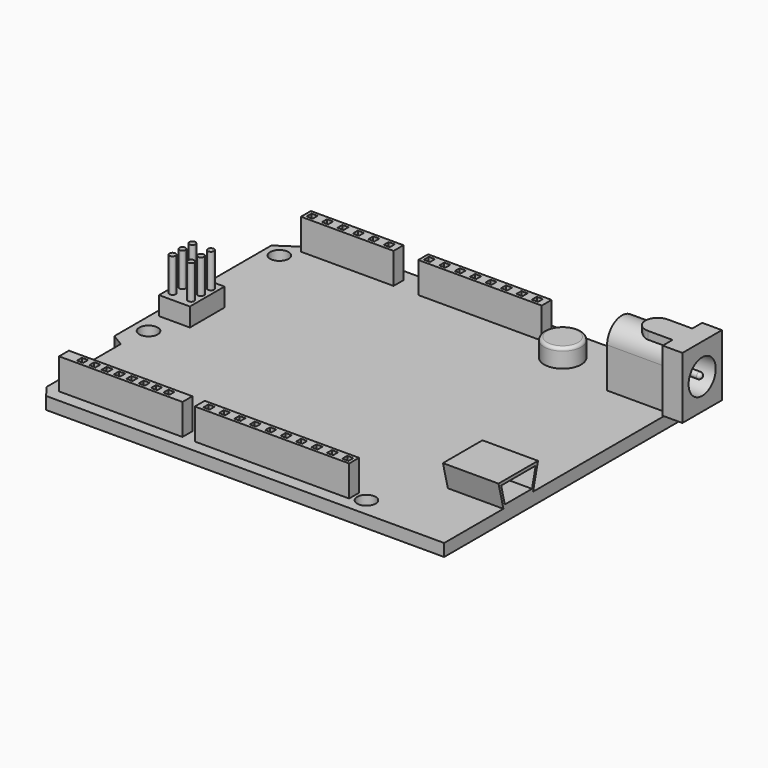
from build123d import *

# Parameters (mm, degrees)
F0_W      = 68
F0_H      = 55
F1_DEPTH  = 2
F2_W      = 2
F2_H      = 17
F3_DEPTH  = 2
F5_DEPTH  = 2
F7_DEPTH  = 2
F9_DEPTH  = 2
F10_R     = 1.5
F11_DEPTH = 2
F12_R     = 1.5
F13_DEPTH = 2
F14_W     = 15
F14_H     = 2
F15_DEPTH = 5
F16_W     = 1
F16_H     = 1
F17_DEPTH = 4
F18_W     = 1
F18_H     = 1
F19_DEPTH = 4
F20_W     = 20
F20_H     = 2
F21_DEPTH = 5
F22_W     = 1
F22_H     = 1
F23_DEPTH = 4
F24_W     = 20
F24_H     = 2
F24_W_2   = 25
F25_DEPTH = 5
F26_W     = 1
F26_H     = 1
F27_DEPTH = 4
F28_W     = 1
F28_H     = 1
F29_DEPTH = 4
F30_R     = 3
F31_DEPTH = 3
F32_R     = 0.5
F33_W     = 5
F33_H     = 7
F34_DEPTH = 3
F35_R     = 0.5
F36_DEPTH = 5.5
F38_DEPTH = 9
F40_DEPTH = 7
F41_W     = 3.2
F41_H     = 8
F42_DEPTH = 10
F44_DEPTH = 13
F47_R     = 2.75
F48_DEPTH = 4
F49_R     = 0.5
F50_DEPTH = 4
F51_R     = 0.5


with BuildPart() as f1:
    # F0 (on Top) → F1 (new body)
    with BuildSketch(Plane.XY):
        with Locations((0, 27.5)):
            Rectangle(F0_W, F0_H)
    extrude(amount=F1_DEPTH)

    # F2 (on face) → F3 (cut, through all)
    with BuildSketch(Plane.XY.offset(2)):
        with Locations((-33, 8.5)):
            Rectangle(F2_W, F2_H)
    extrude(amount=-F3_DEPTH, mode=Mode.SUBTRACT)

    # F4 (on face) → F5 (cut, through all)
    with BuildSketch(Plane.XY.offset(2)):
        Polygon((-30.5, 0), (-32, 2), (-32, 0), align=None)
    extrude(amount=-F5_DEPTH, mode=Mode.SUBTRACT)

    # F6 (on face) → F7 (cut, through all)
    with BuildSketch(Plane.XY.offset(2)):
        Polygon((-34, 18.2), (-34, 17), (-32, 17), align=None)
    extrude(amount=-F7_DEPTH, mode=Mode.SUBTRACT)

    # F8 (on face) → F9 (cut, through all)
    with BuildSketch(Plane.XY.offset(2)):
        Polygon((-34, 55), (-34, 50), (-31, 52), (-31, 55), align=None)
    extrude(amount=-F9_DEPTH, mode=Mode.SUBTRACT)

    # F10 (on face) → F11 (cut, through all)
    with BuildSketch(Plane.XY.offset(2)):
        with Locations((-31.5, 48.5)):
            Circle(F10_R)
        with Locations((-31.5, 22)):
            Circle(F10_R)
    extrude(amount=-F11_DEPTH, mode=Mode.SUBTRACT)

    # F12 (on face) → F13 (cut, through all)
    with BuildSketch(Plane.XY.offset(2)):
        with Locations((19, 3)):
            Circle(F12_R)
    extrude(amount=-F13_DEPTH, mode=Mode.SUBTRACT)

    # F14 (on face) → F15 (join)
    with BuildSketch(Plane.XY.offset(2)):
        with Locations((-22.5, 52)):
            Rectangle(F14_W, F14_H)
    extrude(amount=F15_DEPTH)

    # F16 (on face) → F17 (cut)
    with BuildSketch(Plane.XY.offset(7)):
        with Locations((-29, 52)):
            Rectangle(F16_W, F16_H)
    extrude(amount=-F17_DEPTH, mode=Mode.SUBTRACT)

    # F18 (on face) → F19 (cut)
    with BuildSketch(Plane.XY.offset(7)):
        with Locations((-26.5, 52)):
            Rectangle(F18_W, F18_H)
        with Locations((-24, 52)):
            Rectangle(F18_W, F18_H)
        with Locations((-21.5, 52)):
            Rectangle(F18_W, F18_H)
        with Locations((-19, 52)):
            Rectangle(F18_W, F18_H)
        with Locations((-16.5, 52)):
            Rectangle(F18_W, F18_H)
    extrude(amount=-F19_DEPTH, mode=Mode.SUBTRACT)

    # F20 (on face) → F21 (join)
    with BuildSketch(Plane.XY.offset(2)):
        with Locations((-1, 52)):
            Rectangle(F20_W, F20_H)
    extrude(amount=F21_DEPTH)

    # F22 (on face) → F23 (cut)
    with BuildSketch(Plane.XY.offset(7)):
        with Locations((-10, 52)):
            Rectangle(F22_W, F22_H)
        with Locations((-7.5, 52)):
            Rectangle(F22_W, F22_H)
        with Locations((-5, 52)):
            Rectangle(F22_W, F22_H)
        with Locations((-2.5, 52)):
            Rectangle(F22_W, F22_H)
        with Locations((0, 52)):
            Rectangle(F22_W, F22_H)
        with Locations((2.5, 52)):
            Rectangle(F22_W, F22_H)
        with Locations((5, 52)):
            Rectangle(F22_W, F22_H)
        with Locations((7.5, 52)):
            Rectangle(F22_W, F22_H)
    extrude(amount=-F23_DEPTH, mode=Mode.SUBTRACT)

    # F24 (on face) → F25 (join)
    with BuildSketch(Plane.XY.offset(2)):
        with Locations((-20, 3)):
            Rectangle(F24_W, F24_H)
        with Locations((4.5, 3)):
            Rectangle(F24_W_2, F24_H)
    extrude(amount=F25_DEPTH)

    # F26 (on face) → F27 (cut)
    with BuildSketch(Plane.XY.offset(7)):
        with Locations((-27, 3)):
            Rectangle(F26_W, F26_H)
        with Locations((-25, 3)):
            Rectangle(F26_W, F26_H)
        with Locations((-23, 3)):
            Rectangle(F26_W, F26_H)
        with Locations((-21, 3)):
            Rectangle(F26_W, F26_H)
        with Locations((-19, 3)):
            Rectangle(F26_W, F26_H)
        with Locations((-17, 3)):
            Rectangle(F26_W, F26_H)
        with Locations((-15, 3)):
            Rectangle(F26_W, F26_H)
        with Locations((-13, 3)):
            Rectangle(F26_W, F26_H)
    extrude(amount=-F27_DEPTH, mode=Mode.SUBTRACT)

    # F28 (on face) → F29 (cut)
    with BuildSketch(Plane.XY.offset(7)):
        with Locations((-6.5, 3)):
            Rectangle(F28_W, F28_H)
        with Locations((-4, 3)):
            Rectangle(F28_W, F28_H)
        with Locations((-1.5, 3)):
            Rectangle(F28_W, F28_H)
        with Locations((1, 3)):
            Rectangle(F28_W, F28_H)
        with Locations((3.5, 3)):
            Rectangle(F28_W, F28_H)
        with Locations((8.5, 3)):
            Rectangle(F28_W, F28_H)
        with Locations((6, 3)):
            Rectangle(F28_W, F28_H)
        with Locations((11, 3)):
            Rectangle(F28_W, F28_H)
        with Locations((13.5, 3)):
            Rectangle(F28_W, F28_H)
        with Locations((16, 3)):
            Rectangle(F28_W, F28_H)
    extrude(amount=-F29_DEPTH, mode=Mode.SUBTRACT)

    # F30 (on face) → F31 (join)
    with BuildSketch(Plane.XY.offset(2)):
        with Locations((14, 49)):
            Circle(F30_R)
    extrude(amount=F31_DEPTH)

    # F32
    f32_edges = [f1.edges().sort_by_distance(p)[0] for p in [
        (11, 49, 5),
    ]]
    fillet(f32_edges, radius=F32_R)

    # F33 (on face) → F34 (join)
    with BuildSketch(Plane.XY.offset(2)):
        with Locations((-30.5, 29.5)):
            Rectangle(F33_W, F33_H)
    extrude(amount=F34_DEPTH)

    # F35 (on face) → F36 (join)
    with BuildSketch(Plane.XY.offset(5)):
        with Locations((-32, 31.5)):
            Circle(F35_R)
        with Locations((-32, 29.5)):
            Circle(F35_R)
        with Locations((-32, 27.5)):
            Circle(F35_R)
        with Locations((-29, 31.5)):
            Circle(F35_R)
        with Locations((-29, 29.5)):
            Circle(F35_R)
        with Locations((-29, 27.5)):
            Circle(F35_R)
    extrude(amount=F36_DEPTH)

    # F37 (on face) → F38 (join)
    with BuildSketch(Plane.YZ.offset(34)):
        Polygon((12, 2), (18, 2), (19, 6), (11, 6), align=None)
    extrude(amount=-F38_DEPTH)

    # F39 (on face) → F40 (cut)
    with BuildSketch(Plane.YZ.offset(34)):
        Polygon((17.7873105626, 2.5), (18.5373105626, 5.5), (11.5373105626, 5.5), (12.2873105626, 2.5), align=None)
    extrude(amount=-F40_DEPTH, mode=Mode.SUBTRACT)

    # F41 (on face) → F42 (join)
    with BuildSketch(Plane.XY.offset(2)):
        with Locations((35.4, 48.5)):
            Rectangle(F41_W, F41_H)
    extrude(amount=F42_DEPTH)

    # F43 (on face) → F44 (join)
    with BuildSketch(Plane.YZ.offset(37)):
        with BuildLine():
            Line((45.5, 2), (51.5, 2))
            Line((51.5, 2), (51.5, 8.5))
            ThreePointArc((51.5, 8.5), (48.5, 11.5), (45.5, 8.5))
            Line((45.5, 8.5), (45.5, 2))
        make_face()
    extrude(amount=-F44_DEPTH)

    # F45 (on face) → F46 (join, up to the next surface of F1)
    with BuildSketch(Plane.XY.offset(12)):
        with BuildLine():
            Line((29.8, 46.5), (33.8, 46.5))
            Line((33.8, 46.5), (33.8, 50.5))
            Line((33.8, 50.5), (29.8, 50.5))
            ThreePointArc((29.8, 50.5), (27.8, 48.5), (29.8, 46.5))
        make_face()
    extrude(until=Until.NEXT, dir=(0, 0, -1))

    # F47 (on face) → F48 (cut)
    with BuildSketch(Plane.YZ.offset(37)):
        with Locations((48.5, 7)):
            Circle(F47_R)
    extrude(amount=-F48_DEPTH, mode=Mode.SUBTRACT)

    # F49 (on face) → F50 (join)
    with BuildSketch(Plane.YZ.offset(33)):
        with Locations((48.5, 7)):
            Circle(F49_R)
    extrude(amount=F50_DEPTH)

    # F51
    f51_edges = [f1.edges().sort_by_distance(p)[0] for p in [
        (37, 48, 7),
    ]]
    fillet(f51_edges, radius=F51_R)


solid = f1.part
